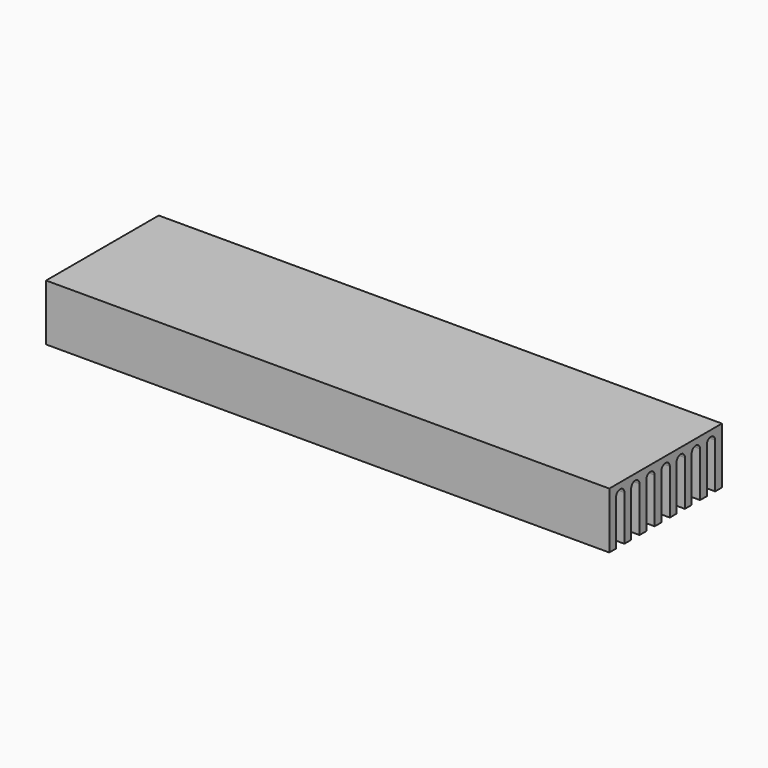
from build123d import *

# Parameters (mm, degrees)
F0_W     = 1.5
F0_H     = 8
F1_DEPTH = 50


with BuildPart() as f1:
    # F0 (on Right) → F1 (new body, symmetric)
    with BuildSketch(Plane.YZ):
        with BuildLine():
            ThreePointArc((-4.286, 4), (-3.3575, 4.9285), (-2.429, 4))
            Line((-2.429, 4), (-0.929, 4))
            ThreePointArc((-0.929, 4), (0, 4.9285), (0.929, 4))
            Line((0.929, 4), (2.429, 4))
            ThreePointArc((2.429, 4), (3.3575, 4.9285), (4.286, 4))
            Line((4.286, 4), (5.786, 4))
            ThreePointArc((5.786, 4), (6.7145, 4.9285), (7.643, 4))
            Line((7.643, 4), (9.143, 4))
            ThreePointArc((9.143, 4), (10.0715, 4.9285), (11, 4))
            Line((11, 4), (12.5, 4))
            Line((12.5, 4), (12.5, 6))
            Line((12.5, 6), (-12.5, 6))
            Line((-12.5, 6), (-12.5, 4))
            Line((-12.5, 4), (-11, 4))
            ThreePointArc((-11, 4), (-10.0715, 4.9285), (-9.143, 4))
            Line((-9.143, 4), (-7.643, 4))
            ThreePointArc((-7.643, 4), (-6.7145, 4.9285), (-5.786, 4))
            Line((-5.786, 4), (-4.286, 4))
        make_face()
        with Locations((-11.75, 0)):
            Rectangle(F0_W, F0_H)
        with Locations((-8.393, 0)):
            Rectangle(F0_W, F0_H)
        with Locations((-5.036, 0)):
            Rectangle(F0_W, F0_H)
        with Locations((-1.679, 0)):
            Rectangle(F0_W, F0_H)
        with Locations((1.679, 0)):
            Rectangle(F0_W, F0_H)
        with Locations((5.036, 0)):
            Rectangle(F0_W, F0_H)
        with Locations((8.393, 0)):
            Rectangle(F0_W, F0_H)
        with Locations((11.75, 0)):
            Rectangle(F0_W, F0_H)
    extrude(amount=F1_DEPTH, both=True)


solid = f1.part
